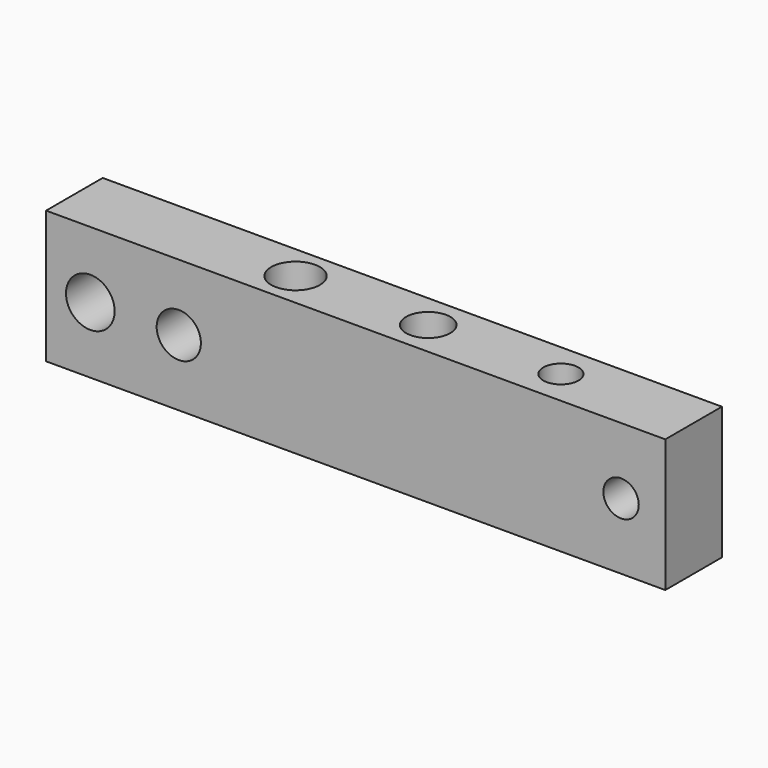
from build123d import *

# Parameters (mm, degrees)
F0_W     = 70
F0_H     = 8
F1_DEPTH = 15
F2_R     = 2.75
F2_R_2   = 2
F2_R_3   = 2.5
F3_DEPTH = 8
F4_R     = 2.75
F4_R_2   = 2.5
F4_R_3   = 2
F5_DEPTH = 25


with BuildPart() as f1:
    # F0 (on Top) → F1 (new body)
    with BuildSketch(Plane.XY):
        with Locations((-4647.166157, -4683.779903)):
            Rectangle(F0_W, F0_H)
    extrude(amount=F1_DEPTH)

    # F2 (on face) → F3 (cut)
    with BuildSketch(Plane.XZ.offset(4687.779903)):
        with Locations((-4677.166157, 7.5)):
            Circle(F2_R)
        with Locations((-4617.166157, 7.5)):
            Circle(F2_R_2)
        with Locations((-4667.166157, 7.5)):
            Circle(F2_R_3)
    extrude(amount=-F3_DEPTH, mode=Mode.SUBTRACT)

    # F4 (on face) → F5 (cut)
    with BuildSketch(Plane.XY.offset(15)):
        with Locations((-4657.166157, -4683.779903)):
            Circle(F4_R)
        with Locations((-4642.166157, -4683.779903)):
            Circle(F4_R_2)
        with Locations((-4627.166157, -4683.779903)):
            Circle(F4_R_3)
    extrude(amount=-F5_DEPTH, mode=Mode.SUBTRACT)


solid = f1.part
